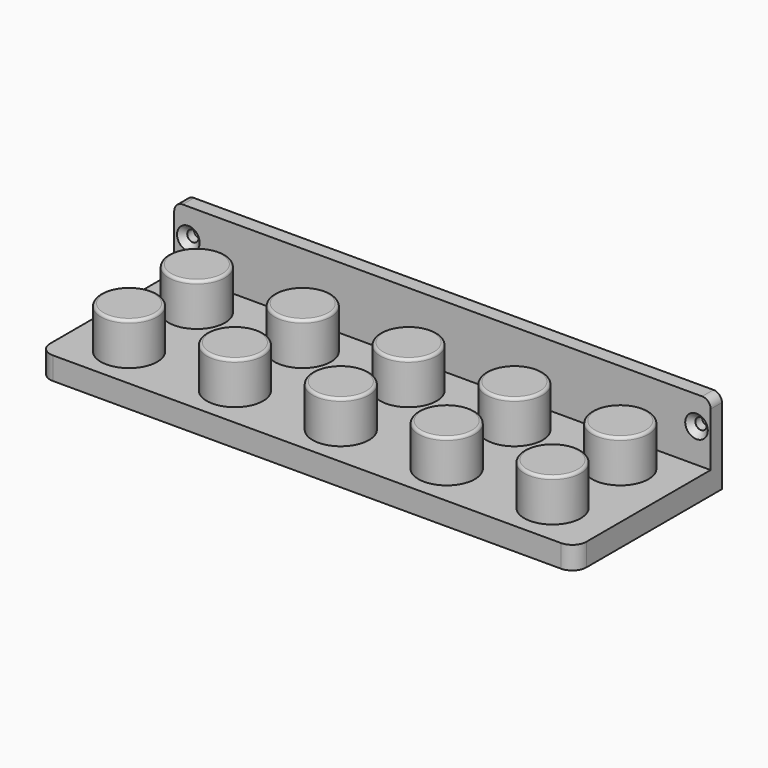
from build123d import *

# Parameters (mm, degrees)
SKETCH_W               = 190
SKETCH_H               = 60
PAD_DEPTH              = 8
SKETCH001_R            = 10
PAD001_DEPTH           = 15
LINEARPATTERN_COUNT    = 5
LINEARPATTERN_PITCH    = 37.5
SKETCH002_R            = 10
PAD002_DEPTH           = 15
LINEARPATTERN001_COUNT = 5
LINEARPATTERN001_PITCH = 37.5
SKETCH003_W            = 190
SKETCH003_H            = 30
PAD003_DEPTH           = 5
SKETCH004_R            = 2
POCKET_DEPTH           = 411.07981
FILLET_R               = 1
FILLET001_R            = 5
FILLET002_R            = 3
CHAMFER_SIZE           = 2


with BuildPart() as part:
    # Sketch → Pad (new body)
    with BuildSketch(Plane.XY):
        Rectangle(SKETCH_W, SKETCH_H)
    extrude(amount=PAD_DEPTH)

    # Sketch001 (on Face6 of Pad) → Pad001 (join)
    with BuildSketch(Plane.XY.offset(8)):
        with Locations((-75, 15)):
            Circle(SKETCH001_R)
    pad001 = extrude(amount=PAD001_DEPTH)

    # LinearPattern: Pad001 ×5
    with Locations(*[(i * LINEARPATTERN_PITCH, 0, 0) for i in range(1, LINEARPATTERN_COUNT)]):
        add(pad001)

    # Sketch002 (on Face5 of LinearPattern) → Pad002 (join)
    with BuildSketch(Plane.XY.offset(8)):
        with Locations((-75, -15)):
            Circle(SKETCH002_R)
    pad002 = extrude(amount=PAD002_DEPTH)

    # LinearPattern001: Pad002 ×5
    with Locations(*[(i * LINEARPATTERN001_PITCH, 0, 0) for i in range(1, LINEARPATTERN001_COUNT)]):
        add(pad002)

    # Sketch003 (on Face1 of LinearPattern001) → Pad003 (join)
    with BuildSketch(Plane(origin=(0, 30, 0), x_dir=(-1, 0, 0), z_dir=(0, 1, 0))):
        with Locations((0, 15)):
            Rectangle(SKETCH003_W, SKETCH003_H)
    extrude(amount=PAD003_DEPTH)

    # Sketch004 (on Face9 of Pad003) → Pocket (cut, through all)
    with BuildSketch(Plane.XZ.offset(-30)):
        with Locations((-90, 20)):
            Circle(SKETCH004_R)
    pocket = extrude(amount=-POCKET_DEPTH, mode=Mode.SUBTRACT)

    # Mirrored: Pocket across Sketch004 V_Axis
    add(pocket.mirror(Plane(origin=(0, 30, 0), x_dir=(0, -1, 0), z_dir=(1, 0, 0))), mode=Mode.SUBTRACT)

    # Fillet
    fillet_edges = [part.edges().sort_by_distance(p)[0] for p in [
        (65, -15, 23),
        (27.5, -15, 23),
        (27.5, 15, 23),
        (65, 15, 23),
        (-10, -15, 23),
        (-10, 15, 23),
        (-47.5, 15, 23),
        (-47.5, -15, 23),
        (-85, -15, 23),
        (-85, 15, 23),
    ]]
    fillet(fillet_edges, radius=FILLET_R)

    # Fillet001
    fillet001_edges = [part.edges().sort_by_distance(p)[0] for p in [
        (-95, -30, 4),
        (95, -30, 4),
    ]]
    fillet(fillet001_edges, radius=FILLET001_R)

    # Fillet002
    fillet002_edges = [part.edges().sort_by_distance(p)[0] for p in [
        (-95, 32.5, 30),
        (95, 32.5, 30),
    ]]
    fillet(fillet002_edges, radius=FILLET002_R)

    # Chamfer
    chamfer_edges = [part.edges().sort_by_distance(p)[0] for p in [
        (-92, 30, 20),
        (92, 30, 20),
    ]]
    chamfer(chamfer_edges, length=CHAMFER_SIZE)


solid = part.part
